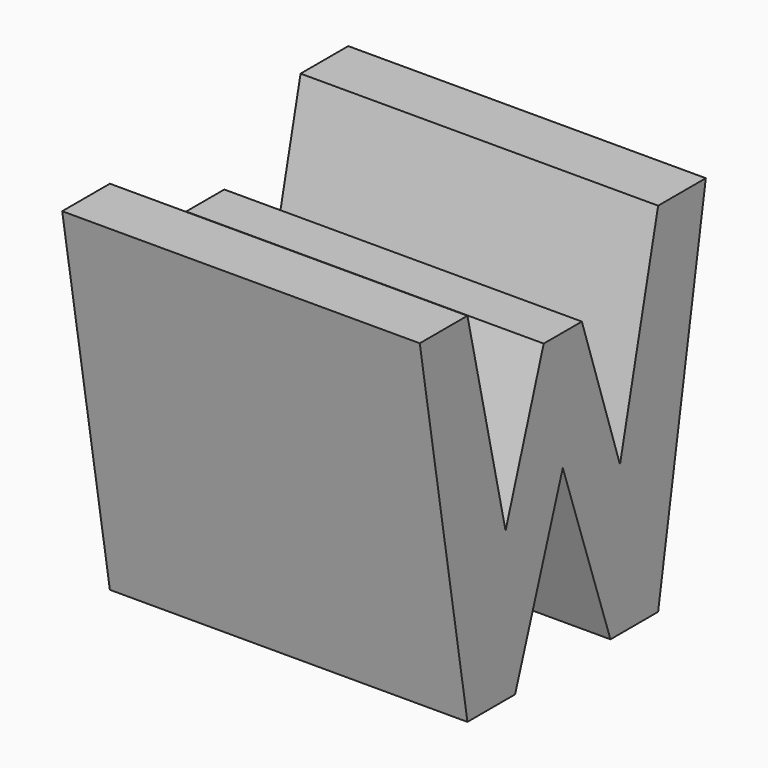
from build123d import *

# Parameters (mm, degrees)
F0_W     = 38.1
F0_H     = 38.1
F1_DEPTH = 38.1
F5_DEPTH = 38.1


with BuildPart() as f1:
    # F0 (on Front) → F1 (new body)
    with BuildSketch(Plane.XZ):
        with Locations((19.05, 19.05)):
            Rectangle(F0_W, F0_H)
    extrude(amount=F1_DEPTH)

    # F4 (on offset) → F5 (cut)
    with BuildSketch(Plane.YZ.offset(38.1)):
        Polygon((-31.75, 0), (-38.1, 38.1), (-38.1, 0), align=None)
        Polygon((-19.05, 0), (-12.7, 0), (-19.05, 18.659922), (-25.4, 0), align=None)
        Polygon((-6.35, 0), (0, 0), (0, 38.1), align=None)
        Polygon((-11.43, 15.875), (-6.35, 38.1), (-31.75, 38.1), (-26.67, 15.875), (-21.59, 31.359922), (-16.51, 31.359922), align=None)
    extrude(amount=-F5_DEPTH, mode=Mode.SUBTRACT)


solid = f1.part
